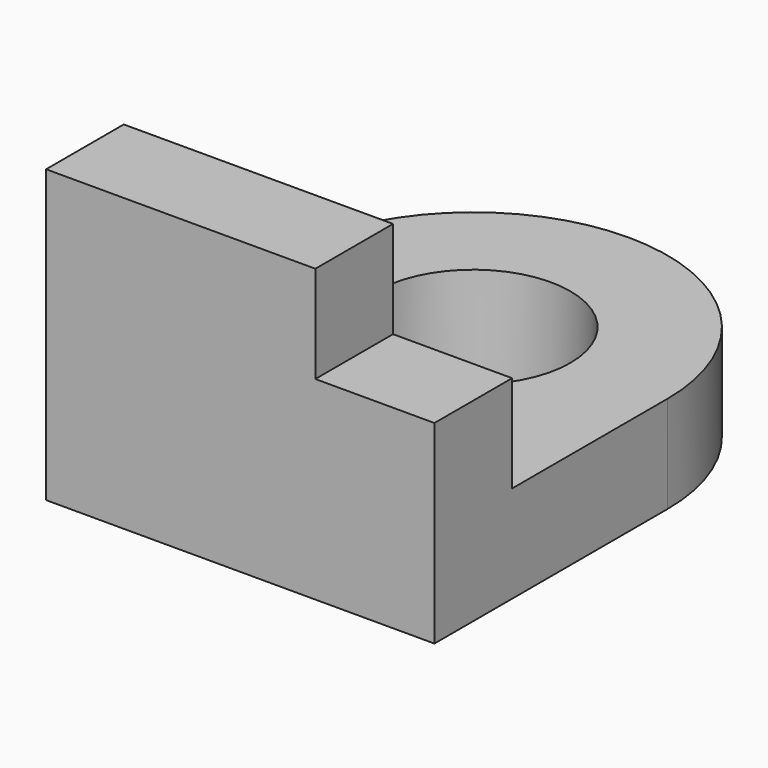
from build123d import *

# Parameters (mm, degrees)
F0_R     = 12.7
F1_DEPTH = 12.7
F3_DEPTH = 12.7


with BuildPart() as f1:
    # F0 (on Top) → F1 (new body)
    with BuildSketch(Plane.XY):
        with BuildLine():
            Line((25.4, -38.1), (25.4, 0))
            ThreePointArc((25.4, 0), (0, 25.4), (-25.4, 0))
            Line((-25.4, 0), (-25.4, -38.1))
            Line((-25.4, -38.1), (25.4, -38.1))
        make_face()
        Circle(F0_R, mode=Mode.SUBTRACT)
    extrude(amount=F1_DEPTH)

    # F2 (on face) → F3 (join)
    with BuildSketch(Plane.XZ.offset(38.1)):
        Polygon((-25.4, 38.1), (-25.4, 12.7), (25.4, 12.7), (25.4, 25.4), (9.821588, 25.4), (9.821588, 38.1), align=None)
    extrude(amount=-F3_DEPTH)


solid = f1.part
